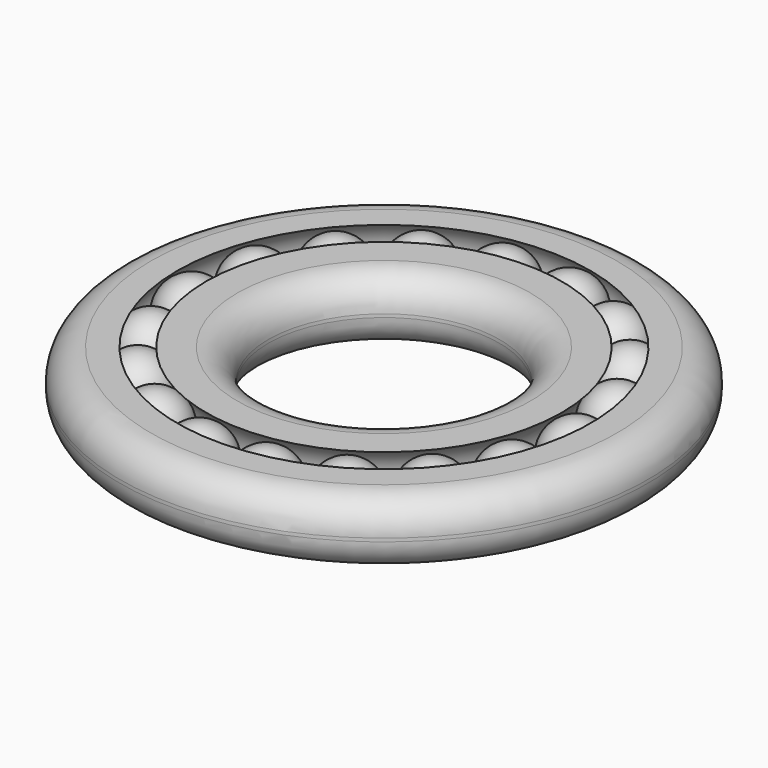
from build123d import *

# Parameters (mm, degrees)
F3_COUNT = 18
F4_R     = 3.556
F4_2_R   = 3.556


with BuildPart() as f1:
    # F0 (on Front) → F1 (revolve)
    with BuildSketch(Plane.XZ):
        with BuildLine():
            Line((-50.1269064844, 25.4743508995), (-55.2931949496, 25.4743508995))
            Line((-55.2931949496, 25.4743508995), (-55.2931949496, 17.9832596332))
            Line((-55.2931949496, 17.9832596332), (-50.0360541046, 17.9832596332))
            Line((-50.0360541046, 17.9832596332), (-48.6906005994, 17.9832596332))
            ThreePointArc((-48.6906005994, 17.9832596332), (-51.1318913714, 21.7288052663), (-48.6906005994, 25.4743508995))
            Line((-48.6906005994, 25.4743508995), (-50.1269064844, 25.4743508995))
        make_face()
    revolve(axis=Axis((-24.9211471528, 0, 21.7288052663), (0, 0, -1)))

    # F4
    f4_edges = [f1.edges().sort_by_distance(p)[0] for p in [
        (5.450901, 0, 25.474351),
        (5.450901, 0, 17.98326),
    ]]
    fillet(f4_edges, radius=F4_R)


with BuildPart() as f1b:
    # F0 (on Front) → F1, piece 2 (revolve)
    with BuildSketch(Plane.XZ):
        with BuildLine():
            Line((-45.3852952465, 17.9832596332), (-38.2253304124, 17.9832596332))
            Line((-38.2253304124, 17.9832596332), (-38.2253304124, 25.4743508995))
            Line((-38.2253304124, 25.4743508995), (-45.3852952465, 25.4743508995))
            ThreePointArc((-45.3852952465, 25.4743508995), (-42.9440044745, 21.7288052663), (-45.3852952465, 17.9832596332))
        make_face()
    revolve(axis=Axis((-24.9211471528, 0, 21.7288052663), (0, 0, -1)))

    # F4#2
    f4_2_edges = [f1b.edges().sort_by_distance(p)[0] for p in [
        (-11.616964, 0, 17.98326),
        (-11.616964, 0, 25.474351),
    ]]
    fillet(f4_2_edges, radius=F4_2_R)


with BuildPart() as f2:
    # F0 (on Front) → F2 (revolve)
    with BuildSketch(Plane.XZ):
        with BuildLine():
            ThreePointArc((-47.0379479229, 17.9832596332), (-44.3894472065, 19.0803045499), (-43.2924022898, 21.7288052663))
            ThreePointArc((-43.2924022898, 21.7288052663), (-44.3894472065, 24.3773059828), (-47.0379479229, 25.4743508995))
            Line((-47.0379479229, 25.4743508995), (-47.0379479229, 17.9832596332))
        make_face()
    revolve(axis=Axis((-47.0379479229, 0, 21.7288052663), (0, 0, -1)))


with BuildPart() as f3_1:
    # F3: instance of F2
    add(f2.part.rotate(Axis((-24.9211471528, 0, 21.7288052663), (0, 0, -1)), 1 * 360 / F3_COUNT))


with BuildPart() as f3_2:
    # F3: instance of F2
    add(f2.part.rotate(Axis((-24.9211471528, 0, 21.7288052663), (0, 0, -1)), 2 * 360 / F3_COUNT))


with BuildPart() as f3_3:
    # F3: instance of F2
    add(f2.part.rotate(Axis((-24.9211471528, 0, 21.7288052663), (0, 0, -1)), 3 * 360 / F3_COUNT))


with BuildPart() as f3_4:
    # F3: instance of F2
    add(f2.part.rotate(Axis((-24.9211471528, 0, 21.7288052663), (0, 0, -1)), 4 * 360 / F3_COUNT))


with BuildPart() as f3_5:
    # F3: instance of F2
    add(f2.part.rotate(Axis((-24.9211471528, 0, 21.7288052663), (0, 0, -1)), 5 * 360 / F3_COUNT))


with BuildPart() as f3_6:
    # F3: instance of F2
    add(f2.part.rotate(Axis((-24.9211471528, 0, 21.7288052663), (0, 0, -1)), 6 * 360 / F3_COUNT))


with BuildPart() as f3_7:
    # F3: instance of F2
    add(f2.part.rotate(Axis((-24.9211471528, 0, 21.7288052663), (0, 0, -1)), 7 * 360 / F3_COUNT))


with BuildPart() as f3_8:
    # F3: instance of F2
    add(f2.part.rotate(Axis((-24.9211471528, 0, 21.7288052663), (0, 0, -1)), 8 * 360 / F3_COUNT))


with BuildPart() as f3_9:
    # F3: instance of F2
    add(f2.part.rotate(Axis((-24.9211471528, 0, 21.7288052663), (0, 0, -1)), 9 * 360 / F3_COUNT))


with BuildPart() as f3_10:
    # F3: instance of F2
    add(f2.part.rotate(Axis((-24.9211471528, 0, 21.7288052663), (0, 0, -1)), 10 * 360 / F3_COUNT))


with BuildPart() as f3_11:
    # F3: instance of F2
    add(f2.part.rotate(Axis((-24.9211471528, 0, 21.7288052663), (0, 0, -1)), 11 * 360 / F3_COUNT))


with BuildPart() as f3_12:
    # F3: instance of F2
    add(f2.part.rotate(Axis((-24.9211471528, 0, 21.7288052663), (0, 0, -1)), 12 * 360 / F3_COUNT))


with BuildPart() as f3_13:
    # F3: instance of F2
    add(f2.part.rotate(Axis((-24.9211471528, 0, 21.7288052663), (0, 0, -1)), 13 * 360 / F3_COUNT))


with BuildPart() as f3_14:
    # F3: instance of F2
    add(f2.part.rotate(Axis((-24.9211471528, 0, 21.7288052663), (0, 0, -1)), 14 * 360 / F3_COUNT))


with BuildPart() as f3_15:
    # F3: instance of F2
    add(f2.part.rotate(Axis((-24.9211471528, 0, 21.7288052663), (0, 0, -1)), 15 * 360 / F3_COUNT))


with BuildPart() as f3_16:
    # F3: instance of F2
    add(f2.part.rotate(Axis((-24.9211471528, 0, 21.7288052663), (0, 0, -1)), 16 * 360 / F3_COUNT))


with BuildPart() as f3_17:
    # F3: instance of F2
    add(f2.part.rotate(Axis((-24.9211471528, 0, 21.7288052663), (0, 0, -1)), 17 * 360 / F3_COUNT))


solid = Compound([f1.part, f1b.part, f2.part, f3_1.part, f3_2.part, f3_3.part, f3_4.part, f3_5.part, f3_6.part, f3_7.part, f3_8.part, f3_9.part, f3_10.part, f3_11.part, f3_12.part, f3_13.part, f3_14.part, f3_15.part, f3_16.part, f3_17.part])
